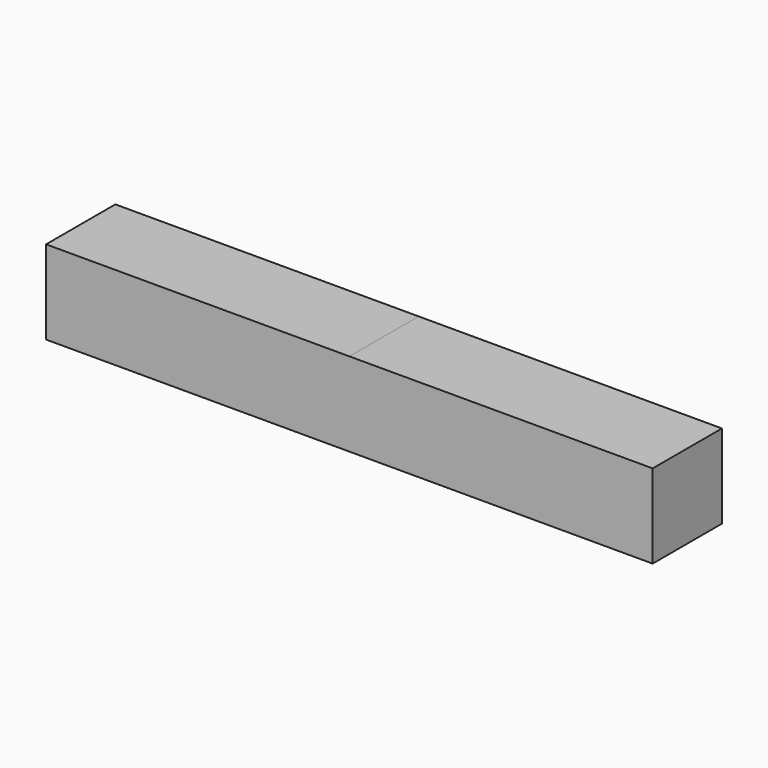
from build123d import *

# Parameters (mm, degrees)
F0_W      = 79.75918
F0_H      = 77.251035
F1_DEPTH  = 279.4
F1_FACE_W = 79.75918
F1_FACE_H = 77.251036
F2_DEPTH  = 279.4


with BuildPart() as f1:
    # F0 (on Right) → F1 (new body)
    with BuildSketch(Plane.YZ):
        with Locations((-1.755707, 1.504893)):
            Rectangle(F0_W, F0_H)
    extrude(amount=-F1_DEPTH)

    # F1_face (on face) → F2 (join)
    with BuildSketch(Plane(origin=(0, -1.755707, 1.504892), x_dir=(0, 1, 0), z_dir=(1, 0, 0))):
        Rectangle(F1_FACE_W, F1_FACE_H)
    extrude(amount=F2_DEPTH)


solid = f1.part
